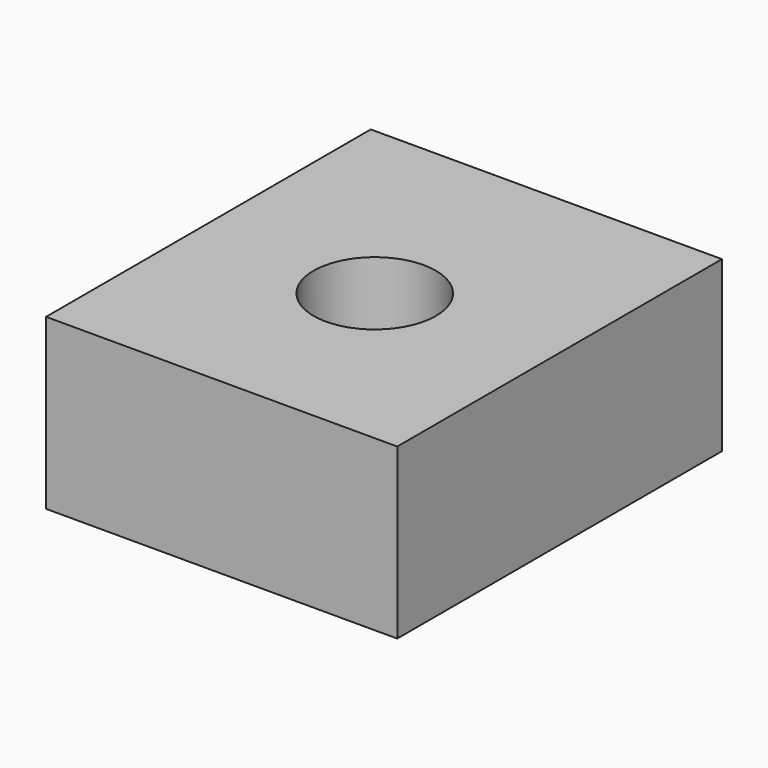
from build123d import *

# Parameters (mm, degrees)
F0_W     = 65.93775
F0_H     = 31.747806
F1_DEPTH = 76.2
F2_R     = 11.490994
F3_DEPTH = 31.748807


with BuildPart() as f1:
    # F0 (on Front) → F1 (new body)
    with BuildSketch(Plane.XZ):
        Rectangle(F0_W, F0_H)
    extrude(amount=F1_DEPTH)

    # F2 (on face) → F3 (cut, through all)
    with BuildSketch(Plane.XY.offset(15.873903)):
        with Locations((0, -40.273719)):
            Circle(F2_R)
    extrude(amount=-F3_DEPTH, mode=Mode.SUBTRACT)


solid = f1.part
